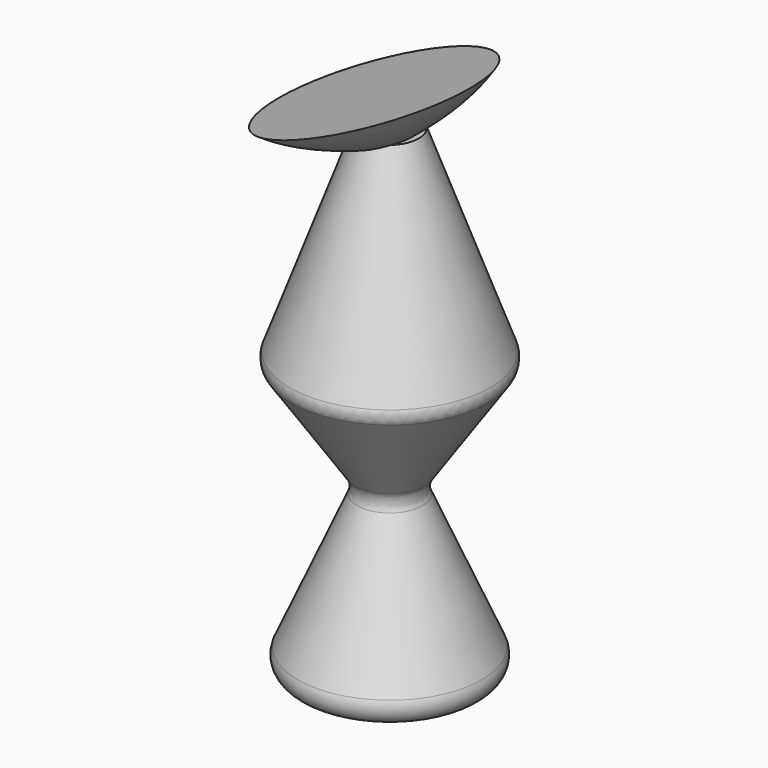
from build123d import *

# Parameters (mm, degrees)
F2_R = 1.8854618593
F3_R = 2.1718744825


with BuildPart() as f1:
    # F0 (on Front) → F1 (revolve)
    with BuildSketch(Plane.XZ):
        Polygon((-12.3239438981, 0), (0, 0), (0, 57.6760545373), (-3.450702643, 57.6760545373), (-12.3239438981, 33.2746505737), (-3.450702643, 20.2112654741), align=None)
    revolve(axis=Axis((0, 0, 28.8380272686), (0, 0, -1)))

    # F2
    f2_edges = [f1.edges().sort_by_distance(p)[0] for p in [
        (12.323944, 0, 33.274651),
    ]]
    fillet(f2_edges, radius=F2_R)

    # F3
    f3_edges = [f1.edges().sort_by_distance(p)[0] for p in [
        (3.450703, 0, 20.211265),
        (12.323944, 0, 0),
        (-7.887323, 0, 10.105633),
    ]]
    fillet(f3_edges, radius=F3_R)

    # F4 (on Front) → F5 (revolve)
    with BuildSketch(Plane.XZ):
        with BuildLine():
            add(Edge.make_bspline(
                [(0, 55.6588992476), (-1.9346006023, 55.4044221137), (-5.9728011334, 55.2906711058), (-10.6749403377, 55.6049072132), (-13.2927423914, 56.5220602196)],
                knots=[0, 0, 0, 0, 0.469506717, 1, 1, 1, 1], degree=3))
            Line((0, 55.6588992476), (-1.8686421681, 60.7309341431))
            Line((-1.8686421681, 60.7309341431), (-13.2927423914, 56.5220602196))
        make_face()
    revolve(axis=Axis((-0.9343210841, 0, 58.1949166954), (0.3457049895, 0, -0.9383432529)))


solid = f1.part
